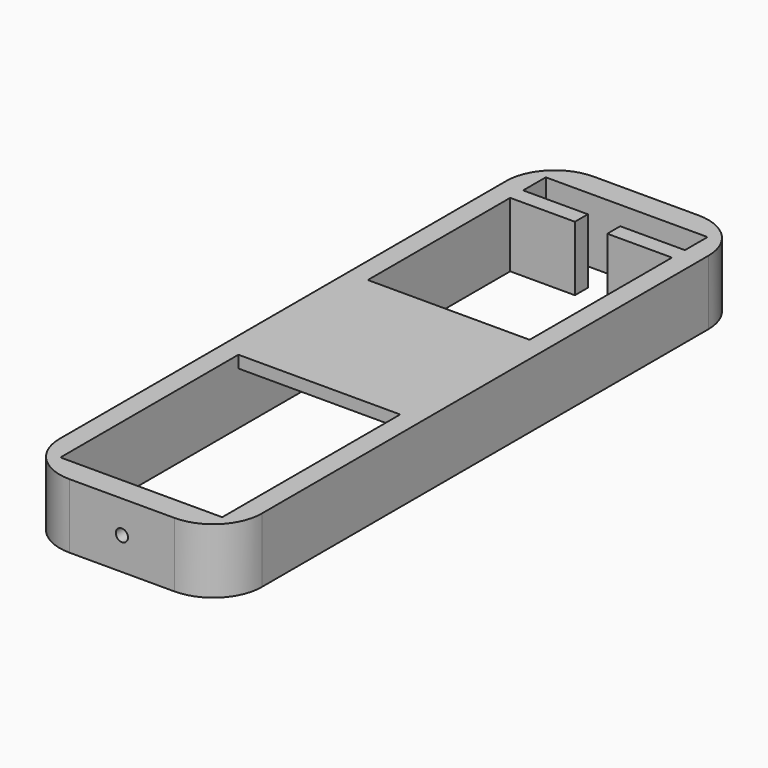
from build123d import *

# Parameters (mm, degrees)
F0_W     = 25
F0_H     = 81
F0_W_2   = 20
F0_H_2   = 75
F1_DEPTH = 8
F2_W     = 8
F2_H     = 2
F3_DEPTH = 8
F5_R     = 6
F6_W     = 22.5
F6_H     = 20
F7_DEPTH = 1.5
F8_R     = 0.75
F9_DEPTH = 100


with BuildPart() as f1:
    # F0 (on Top) → F1 (new body)
    with BuildSketch(Plane.XY):
        Rectangle(F0_W, F0_H)
        Rectangle(F0_W_2, F0_H_2, mode=Mode.SUBTRACT)
    extrude(amount=F1_DEPTH)

    # F2 (on face) → F3 (join)
    with BuildSketch(Plane.XY.offset(8)):
        with Locations((-6, 33)):
            Rectangle(F2_W, F2_H)
        with Locations((6, 33)):
            Rectangle(F2_W, F2_H)
    extrude(amount=-F3_DEPTH)

    # F5
    f5_edges = [f1.edges().sort_by_distance(p)[0] for p in [
        (-12.5, 40.5, 4),
        (12.5, 40.5, 4),
        (12.5, -40.5, 4),
        (-12.5, -40.5, 4),
    ]]
    fillet(f5_edges, radius=F5_R)

    # F6 (on face) → F7 (join)
    with BuildSketch(Plane.XY.offset(8)):
        with Locations((-1.25, 0)):
            Rectangle(F6_W, F6_H)
    extrude(amount=-F7_DEPTH)

    # F8 (on face) → F9 (cut)
    with BuildSketch(Plane.XZ.offset(40.5)):
        with Locations((0, 4)):
            Circle(F8_R)
    extrude(amount=-F9_DEPTH, mode=Mode.SUBTRACT)


solid = f1.part
